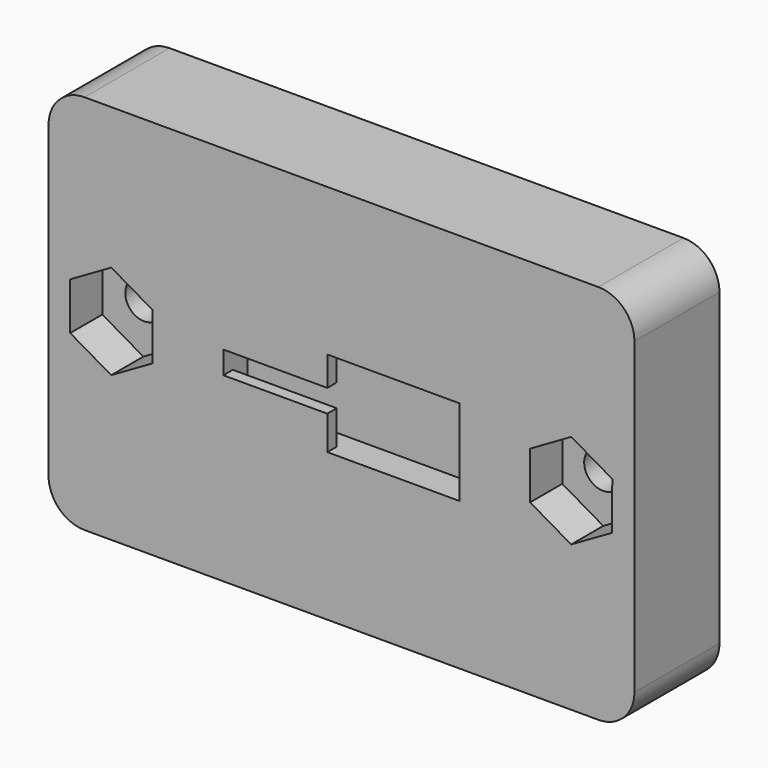
from build123d import *

# Parameters (mm, degrees)
F0_W      = 62
F0_H      = 40.32
F1_DEPTH  = 11.25
F2_W      = 25
F2_H      = 9.1
F3_DEPTH  = 3.2
F4_W      = 10.9982
F4_H      = 3.1144623497
F4_H_2    = 3.5855376503
F5_DEPTH  = 1.25
F6_R      = 3.81
F7_R      = 2
F8_DEPTH  = 15.24
F10_DEPTH = 4.25


with BuildPart() as f1:
    # F0 (on Front) → F1 (new body)
    with BuildSketch(Plane.XZ):
        Rectangle(F0_W, F0_H)
    extrude(amount=F1_DEPTH)

    # F2 (on face) → F3 (cut)
    with BuildSketch(Plane.XZ.offset(11.25)):
        Rectangle(F2_W, F2_H)
    extrude(amount=-F3_DEPTH, mode=Mode.SUBTRACT)

    # F4 (on face) → F5 (join)
    with BuildSketch(Plane.XZ.offset(11.25)):
        with Locations((-7.0009, 2.9927688252)):
            Rectangle(F4_W, F4_H)
        with Locations((-7.0009, -2.7572311748)):
            Rectangle(F4_W, F4_H_2)
    extrude(amount=-F5_DEPTH)

    # F6
    f6_edges = [f1.edges().sort_by_distance(p)[0] for p in [
        (-31, -5.625, 20.16),
        (31, -5.625, 20.16),
        (31, -5.625, -20.16),
        (-31, -5.625, -20.16),
    ]]
    fillet(f6_edges, radius=F6_R)

    # F7 (on face) → F8 (cut)
    with BuildSketch(Plane.XZ.offset(11.25)):
        with Locations((-24.2824, 0.5)):
            Circle(F7_R)
        with Locations((24.2824, 0.5)):
            Circle(F7_R)
    extrude(amount=-F8_DEPTH, mode=Mode.SUBTRACT)

    # F9 (on face) → F10 (cut)
    with BuildSketch(Plane.XZ.offset(11.25)):
        Polygon((-24.3669678343, -4.8146678066), (-20.021959685, -2.3119505341), (-20.0168723469, 2.7022955391), (-24.356793158, 5.2138243397), (-28.7018013073, 2.7111070672), (-28.7068886454, -2.3031390059), align=None)
        Polygon((24.3045226557, -4.7588889519), (28.6495308049, -2.2561716794), (28.654618143, 2.7580743938), (24.3146973319, 5.2696031944), (19.9696891827, 2.7668859219), (19.9646018445, -2.2473601513), align=None)
    extrude(amount=-F10_DEPTH, mode=Mode.SUBTRACT)


solid = f1.part
